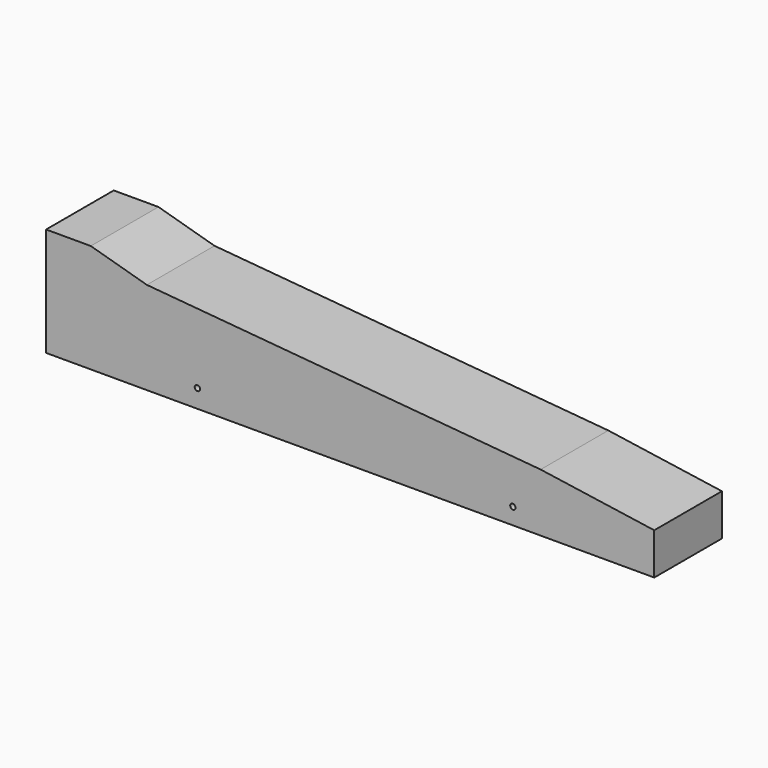
from build123d import *

# Parameters (mm, degrees)
F1_DEPTH  = 41.275
F2_R      = 9.525
F3_DEPTH  = 53.34
F5_W      = 260.929487
F5_H      = 28.83905
F6_DEPTH  = 22.1996
F8_DEPTH  = 50.8
F9_R      = 1.2954
F10_DEPTH = 101.6
F11_R     = 1.2954
F12_DEPTH = 101.6


with BuildPart() as f1:
    # F0 (on Front) → F1 (new body)
    with BuildSketch(Plane.XZ):
        Polygon((-73.813496, 63.5), (-73.813496, 0), (222.924162, 0), (222.924162, 20.32), align=None)
    extrude(amount=-F1_DEPTH)

    # F2 (on face) → F3 (cut)
    with BuildSketch(Plane(origin=(-73.813496, 0, 0), x_dir=(0, -1, 0), z_dir=(-1, 0, 0))):
        with Locations((-20.6375, 31.75)):
            Circle(F2_R)
    extrude(amount=-F3_DEPTH, mode=Mode.SUBTRACT)

    # F5 (on face) → F6 (cut)
    with BuildSketch(Plane(origin=(0, 0, 0), x_dir=(1, 0, 0), z_dir=(0, 0, -1))):
        with Locations((70.18033, -21.463492)):
            Rectangle(F5_W, F5_H)
    extrude(amount=-F6_DEPTH, mode=Mode.SUBTRACT)

    # F7 (on face) → F8 (cut)
    with BuildSketch(Plane.XZ):
        Polygon((-24.655161, 45.214526), (167.490213, 28.386512), (-73.813496, 63.5), (-73.813496, 53.013064), (-51.996879, 53.013064), align=None)
    extrude(amount=-F8_DEPTH, mode=Mode.SUBTRACT)

    # F9 (on face) → F10 (cut)
    with BuildSketch(Plane.XZ):
        with Locations((0, 8.893992)):
            Circle(F9_R)
    extrude(amount=-F10_DEPTH, mode=Mode.SUBTRACT)

    # F11 (on face) → F12 (cut)
    with BuildSketch(Plane.XZ):
        with Locations((153.94105, 8.016577)):
            Circle(F11_R)
    extrude(amount=-F12_DEPTH, mode=Mode.SUBTRACT)


solid = f1.part
